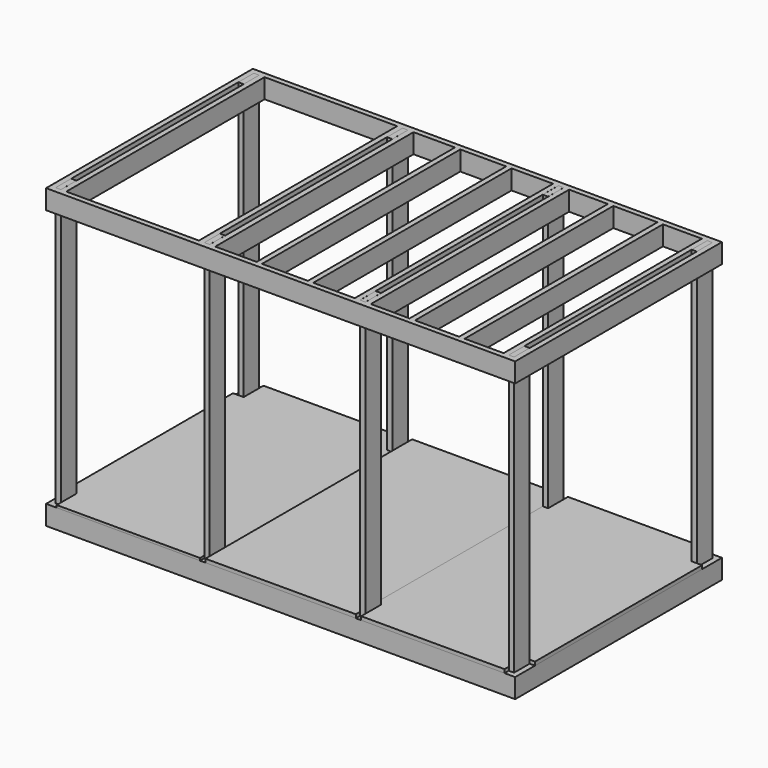
from build123d import *

# Parameters (mm, degrees)
F0_W     = 38.1
F0_H     = 1778
F1_DEPTH = 139.7
F2_W     = 38.1
F2_H     = 139.7
F3_DEPTH = 2133.6
F4_W     = 3365.5
F4_H     = 1854.2
F4_W_2   = 39.3888950348
F4_H_2   = 1778
F4_W_3   = 38.9654636383
F4_W_4   = 38.4805202484
F4_W_5   = 37.6737117767
F4_W_6   = 38.0517244339
F4_W_7   = 38.1945371628
F4_W_8   = 39.9121046066
F4_W_9   = 39.1020178795
F4_W_10  = 38.3940786123
F5_DEPTH = 139.7
F6_W     = 279.4
F6_H     = 1778
F6_W_2   = 317.5
F6_W_3   = 38.1
F6_H_2   = 1498.6
F7_DEPTH = 17.145
F6_W_4   = 298.45
F6_W_5   = 330.2
F8_DEPTH = 25.4
F9_DEPTH = 25.4


with BuildPart() as f1:
    # F0 (on Top) → F1 (new body)
    with BuildSketch(Plane.XY):
        Polygon((3365.5, 0), (0, 0), (0, -38.1), (38.1, -38.1), (76.2, -38.1), (114.3, -38.1), (393.7, -38.1), (431.8, -38.1), (749.3, -38.1), (787.4, -38.1), (1066.8, -38.1), (1104.9, -38.1), (1143, -38.1), (1181.1, -38.1), (1479.55, -38.1), (1517.65, -38.1), (1847.85, -38.1), (1885.95, -38.1), (2184.4, -38.1), (2222.5, -38.1), (2260.6, -38.1), (2298.7, -38.1), (2578.1, -38.1), (2616.2, -38.1), (2933.7, -38.1), (2971.8, -38.1), (3251.2, -38.1), (3289.3, -38.1), (3327.4, -38.1), (3365.5, -38.1), align=None)
        with Locations((3346.45, -927.1)):
            Rectangle(F0_W, F0_H)
        with Locations((3270.25, -927.1)):
            Rectangle(F0_W, F0_H)
        Polygon((38.1, -1816.1), (0, -1816.1), (0, -1854.2), (3365.5, -1854.2), (3365.5, -1816.1), (3327.4, -1816.1), (3289.3, -1816.1), (3251.2, -1816.1), (2971.8, -1816.1), (2933.7, -1816.1), (2616.2, -1816.1), (2578.1, -1816.1), (2298.7, -1816.1), (2260.6, -1816.1), (2222.5, -1816.1), (2184.4, -1816.1), (1885.95, -1816.1), (1847.85, -1816.1), (1517.65, -1816.1), (1479.55, -1816.1), (1181.1, -1816.1), (1143, -1816.1), (1104.9, -1816.1), (1066.8, -1816.1), (787.4, -1816.1), (749.3, -1816.1), (431.8, -1816.1), (393.7, -1816.1), (114.3, -1816.1), (76.2, -1816.1), align=None)
        with Locations((19.05, -927.1)):
            Rectangle(F0_W, F0_H)
        with Locations((95.25, -927.1)):
            Rectangle(F0_W, F0_H)
        with Locations((1085.85, -927.1)):
            Rectangle(F0_W, F0_H)
        with Locations((1162.05, -927.1)):
            Rectangle(F0_W, F0_H)
        with Locations((2203.45, -927.1)):
            Rectangle(F0_W, F0_H)
        with Locations((2279.65, -927.1)):
            Rectangle(F0_W, F0_H)
        with Locations((3270.25, -927.1)):
            Rectangle(F0_W, F0_H)
        with Locations((3346.45, -927.1)):
            Rectangle(F0_W, F0_H)
        with Locations((412.75, -927.1)):
            Rectangle(F0_W, F0_H)
        with Locations((768.35, -927.1)):
            Rectangle(F0_W, F0_H)
        with Locations((1498.6, -927.1)):
            Rectangle(F0_W, F0_H)
        with Locations((1866.9, -927.1)):
            Rectangle(F0_W, F0_H)
        with Locations((2597.15, -927.1)):
            Rectangle(F0_W, F0_H)
        with Locations((2952.75, -927.1)):
            Rectangle(F0_W, F0_H)
    extrude(amount=F1_DEPTH)


with BuildPart() as f3:
    # F2 (on face) → F3 (new body)
    with BuildSketch(Plane(origin=(0, 0, 0), x_dir=(1, 0, 0), z_dir=(0, 0, -1))):
        with Locations((57.15, 107.95)):
            Rectangle(F2_W, F2_H)
    extrude(amount=-F3_DEPTH)


with BuildPart() as f3b:
    # F2 (on face) → F3, piece 2 (new body)
    with BuildSketch(Plane(origin=(0, 0, 0), x_dir=(1, 0, 0), z_dir=(0, 0, -1))):
        with Locations((1123.95, 107.95)):
            Rectangle(F2_W, F2_H)
    extrude(amount=-F3_DEPTH)


with BuildPart() as f3c:
    # F2 (on face) → F3, piece 3 (new body)
    with BuildSketch(Plane(origin=(0, 0, 0), x_dir=(1, 0, 0), z_dir=(0, 0, -1))):
        with Locations((2241.55, 107.95)):
            Rectangle(F2_W, F2_H)
    extrude(amount=-F3_DEPTH)


with BuildPart() as f3d:
    # F2 (on face) → F3, piece 4 (new body)
    with BuildSketch(Plane(origin=(0, 0, 0), x_dir=(1, 0, 0), z_dir=(0, 0, -1))):
        with Locations((3308.35, 107.95)):
            Rectangle(F2_W, F2_H)
    extrude(amount=-F3_DEPTH)


with BuildPart() as f3e:
    # F2 (on face) → F3, piece 5 (new body)
    with BuildSketch(Plane(origin=(0, 0, 0), x_dir=(1, 0, 0), z_dir=(0, 0, -1))):
        with Locations((57.15, 1746.25)):
            Rectangle(F2_W, F2_H)
    extrude(amount=-F3_DEPTH)


with BuildPart() as f3f:
    # F2 (on face) → F3, piece 6 (new body)
    with BuildSketch(Plane(origin=(0, 0, 0), x_dir=(1, 0, 0), z_dir=(0, 0, -1))):
        with Locations((1123.95, 1746.25)):
            Rectangle(F2_W, F2_H)
    extrude(amount=-F3_DEPTH)


with BuildPart() as f3g:
    # F2 (on face) → F3, piece 7 (new body)
    with BuildSketch(Plane(origin=(0, 0, 0), x_dir=(1, 0, 0), z_dir=(0, 0, -1))):
        with Locations((2241.55, 1746.25)):
            Rectangle(F2_W, F2_H)
    extrude(amount=-F3_DEPTH)


with BuildPart() as f3h:
    # F2 (on face) → F3, piece 8 (new body)
    with BuildSketch(Plane(origin=(0, 0, 0), x_dir=(1, 0, 0), z_dir=(0, 0, -1))):
        with Locations((3308.35, 1746.25)):
            Rectangle(F2_W, F2_H)
    extrude(amount=-F3_DEPTH)


with BuildPart() as f5:
    # F4 (on face) → F5 (new body)
    with BuildSketch(Plane.XY.offset(2133.6)):
        with Locations((1682.75, -927.1)):
            Rectangle(F4_W, F4_H)
        Polygon((3327.4, -38.1), (3327.4, -1816.1), (3289.3, -1816.1), (3252.1376609802, -1816.1), (2972.633600235, -1816.1), (2933.2447052002, -1816.1), (2616.5995597839, -1816.1), (2577.6340961456, -1816.1), (2299.3535995483, -1816.1), (2260.8730792999, -1816.1), (2222.0861911774, -1816.1), (2184.4124794006, -1816.1), (1886.3390684128, -1816.1), (1848.2873439789, -1816.1), (1518.7114477158, -1816.1), (1480.516910553, -1816.1), (1183.1712722778, -1816.1), (1143.2591676712, -1816.1), (1105.0134897232, -1816.1), (1065.9114718437, -1816.1), (114.6984994411, -1816.1), (76.3044208288, -1816.1), (38.1, -1816.1), (38.1, -38.1), (76.3044208288, -38.1), (114.6984994411, -38.1), (1065.9114718437, -38.1), (1105.0134897232, -38.1), (1143.2591676712, -38.1), (1183.1712722778, -38.1), (1480.516910553, -38.1), (1518.7114477158, -38.1), (1848.2873439789, -38.1), (1886.3390684128, -38.1), (2184.4124794006, -38.1), (2222.0861911774, -38.1), (2260.8730792999, -38.1), (2299.3535995483, -38.1), (2577.6340961456, -38.1), (2616.5995597839, -38.1), (2933.2447052002, -38.1), (2972.633600235, -38.1), (3252.1376609802, -38.1), (3290.381193161, -38.1), align=None, mode=Mode.SUBTRACT)
        Polygon((3252.1376609802, -1816.1), (3289.3, -1816.1), (3289.3, -1676.4), (3289.3849508912, -1676.4), (3290.381193161, -38.1), (3252.1376609802, -38.1), align=None)
        with Locations((2952.9391527176, -927.1)):
            Rectangle(F4_W_2, F4_H_2)
        with Locations((2597.1168279648, -927.1)):
            Rectangle(F4_W_3, F4_H_2)
        with Locations((2280.1133394241, -927.1)):
            Rectangle(F4_W_4, F4_H_2)
        with Locations((2203.249335289, -927.1)):
            Rectangle(F4_W_5, F4_H_2)
        with Locations((1867.3132061958, -927.1)):
            Rectangle(F4_W_6, F4_H_2)
        with Locations((1499.6141791344, -927.1)):
            Rectangle(F4_W_7, F4_H_2)
        with Locations((1163.2152199745, -927.1)):
            Rectangle(F4_W_8, F4_H_2)
        with Locations((1085.4624807835, -927.1)):
            Rectangle(F4_W_9, F4_H_2)
        with Locations((95.501460135, -927.1)):
            Rectangle(F4_W_10, F4_H_2)
    extrude(amount=-F5_DEPTH)


with BuildPart() as f7:
    # F6 (on face) → F7 (new body)
    with BuildSketch(Plane.XY.offset(139.7)):
        Polygon((76.2, -38.1), (76.2, -177.8), (76.2, -1676.4), (76.2, -1816.1), (76.2, -1854.2), (1104.9, -1854.2), (1104.9, -1816.1), (1104.9, -1676.4), (1104.9, -177.8), (1104.9, -38.1), (1104.9, 0), (76.2, 0), align=None)
        with Locations((254, -927.1)):
            Rectangle(F6_W, F6_H, mode=Mode.SUBTRACT)
        with Locations((590.55, -927.1)):
            Rectangle(F6_W_2, F6_H, mode=Mode.SUBTRACT)
        with Locations((927.1, -927.1)):
            Rectangle(F6_W, F6_H, mode=Mode.SUBTRACT)
        with Locations((19.05, -927.1)):
            Rectangle(F6_W_3, F6_H_2)
        with Locations((57.15, -927.1)):
            Rectangle(F6_W_3, F6_H_2)
        with Locations((1123.95, -927.1)):
            Rectangle(F6_W_3, F6_H_2)
        with Locations((254, -927.1)):
            Rectangle(F6_W, F6_H)
        with Locations((590.55, -927.1)):
            Rectangle(F6_W_2, F6_H)
        with Locations((927.1, -927.1)):
            Rectangle(F6_W, F6_H)
    extrude(amount=F7_DEPTH)


with BuildPart() as f8:
    # F6 (on face) → F8 (new body)
    with BuildSketch(Plane.XY.offset(139.7)):
        Polygon((2222.5, 0), (1143, 0), (1143, -38.1), (1143, -177.8), (1143, -1676.4), (1143, -1816.1), (1143, -1854.2), (2222.5, -1854.2), (2222.5, -1816.1), (2222.5, -1676.4), (2222.5, -177.8), (2222.5, -38.1), align=None)
        with Locations((1330.325, -927.1)):
            Rectangle(F6_W_4, F6_H, mode=Mode.SUBTRACT)
        with Locations((1682.75, -927.1)):
            Rectangle(F6_W_5, F6_H, mode=Mode.SUBTRACT)
        with Locations((2035.175, -927.1)):
            Rectangle(F6_W_4, F6_H, mode=Mode.SUBTRACT)
        with Locations((1330.325, -927.1)):
            Rectangle(F6_W_4, F6_H)
        with Locations((1682.75, -927.1)):
            Rectangle(F6_W_5, F6_H)
        with Locations((2035.175, -927.1)):
            Rectangle(F6_W_4, F6_H)
    extrude(amount=F8_DEPTH)


with BuildPart() as f9:
    # F6 (on face) → F9 (new body)
    with BuildSketch(Plane.XY.offset(139.7)):
        with Locations((2241.55, -927.1)):
            Rectangle(F6_W_3, F6_H_2)
        Polygon((3289.3, 0), (2260.6, 0), (2260.6, -38.1), (2260.6, -177.8), (2260.6, -1676.4), (2260.6, -1816.1), (2260.6, -1854.2), (3289.3, -1854.2), (3289.3, -1816.1), (3289.3, -1676.4), (3289.3, -177.8), (3289.3, -38.1), align=None)
        with Locations((2438.4, -927.1)):
            Rectangle(F6_W, F6_H, mode=Mode.SUBTRACT)
        with Locations((2774.95, -927.1)):
            Rectangle(F6_W_2, F6_H, mode=Mode.SUBTRACT)
        with Locations((3111.5, -927.1)):
            Rectangle(F6_W, F6_H, mode=Mode.SUBTRACT)
        with Locations((2438.4, -927.1)):
            Rectangle(F6_W, F6_H)
        with Locations((2774.95, -927.1)):
            Rectangle(F6_W_2, F6_H)
        with Locations((3111.5, -927.1)):
            Rectangle(F6_W, F6_H)
        with Locations((3346.45, -927.1)):
            Rectangle(F6_W_3, F6_H_2)
        with Locations((3308.35, -927.1)):
            Rectangle(F6_W_3, F6_H_2)
    extrude(amount=F9_DEPTH)


solid = Compound([f1.part, f3.part, f3b.part, f3c.part, f3d.part, f3e.part, f3f.part, f3g.part, f3h.part, f5.part, f7.part, f8.part, f9.part])
